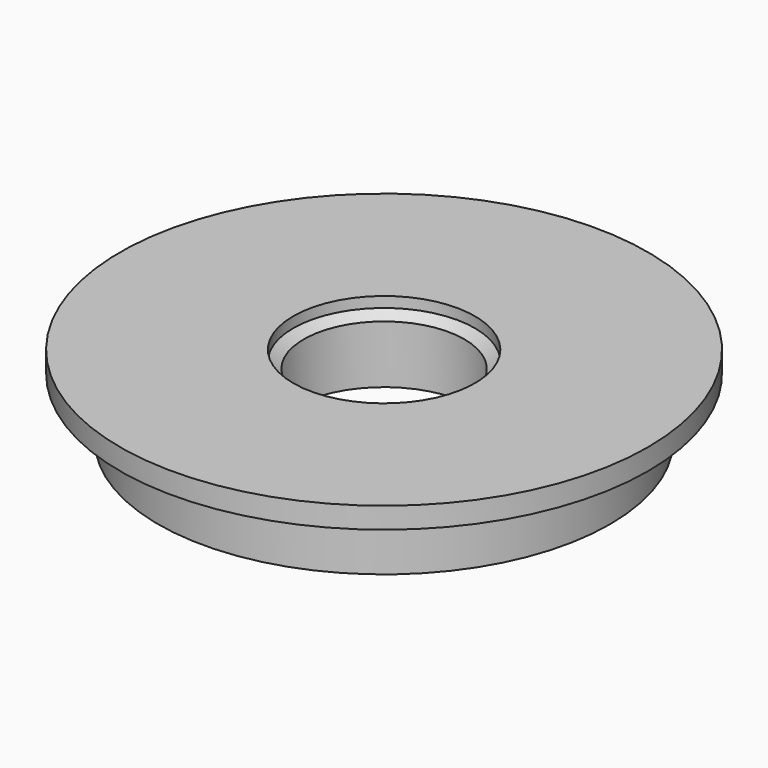
from build123d import *

# Parameters (mm, degrees)
F0_R           = 27.178
F1_DEPTH       = 7.112
F2_R           = 31.75
F3_DEPTH       = 2.54
F5_D           = 19.304
F5_DEPTH       = 7.62
F5_CBORE_D     = 21.844
F5_CBORE_DEPTH = 7.62
F5_TIP         = 5.7995066949
F7_D           = 21.844
F7_DEPTH       = 1.27
F7_TIP         = 6.562599681


with BuildPart() as f1:
    # F0 (on Top) → F1 (new body)
    with BuildSketch(Plane.XY):
        Circle(F0_R)
    extrude(amount=F1_DEPTH)

    # F2 (on face) → F3 (join)
    with BuildSketch(Plane.XY.offset(7.112)):
        Circle(F2_R)
    extrude(amount=F3_DEPTH)

    # F5
    with Locations(Plane(origin=(0, 0, 0), x_dir=(1, 0, 0), z_dir=(0, 0, -1))):
        with Locations((0, 0)):
            CounterBoreHole(F5_D / 2, F5_CBORE_D / 2, F5_CBORE_DEPTH, depth=F5_DEPTH)
            with Locations((0, 0, -(F5_DEPTH + F5_TIP / 2))):  # 118° drill point
                Cone(0, F5_D / 2, F5_TIP, mode=Mode.SUBTRACT)

    # F7
    with Locations(Plane.XY.offset(9.652)):
        with Locations((0, 0)):
            Hole(F7_D / 2, depth=F7_DEPTH)
            with Locations((0, 0, -(F7_DEPTH + F7_TIP / 2))):  # 118° drill point
                Cone(0, F7_D / 2, F7_TIP, mode=Mode.SUBTRACT)


solid = f1.part
